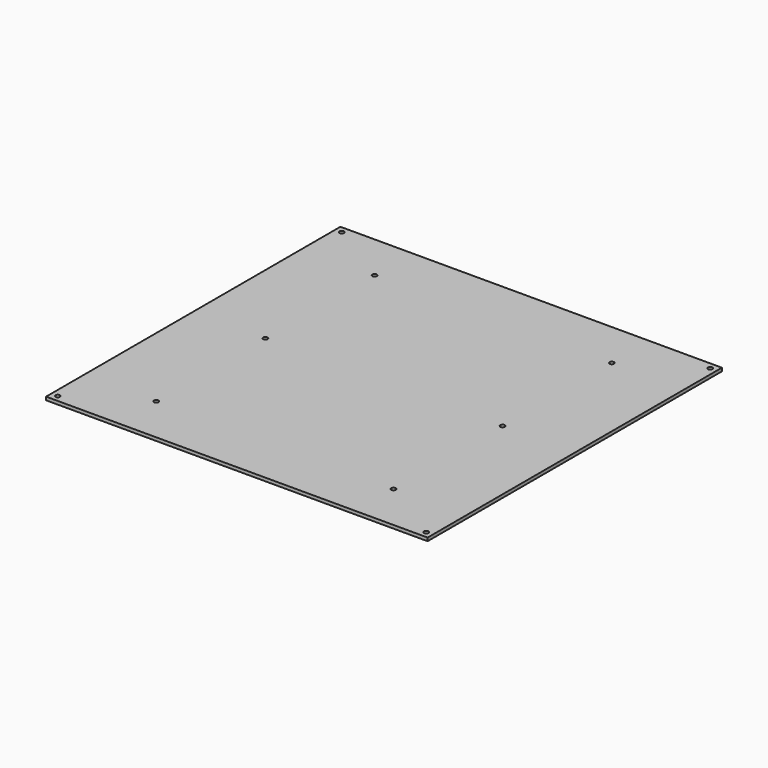
from build123d import *

# Parameters (mm, degrees)
F0_W     = 587
F0_H     = 566
F1_DEPTH = 5
F3_D     = 7
F5_D     = 7


with BuildPart() as f1:
    # F0 (on Top) → F1 (new body)
    with BuildSketch(Plane.XY):
        with Locations((293.5, 283)):
            Rectangle(F0_W, F0_H)
    extrude(amount=F1_DEPTH)

    # F3 (through all)
    with Locations(Plane.XY.offset(5)):
        with Locations((10, 556), (577, 556), (577, 10), (10, 10)):
            Hole(F3_D / 2)

    # F5 (through all)
    with Locations(Plane.XY.offset(5)):
        with Locations((111, 493), (476, 493), (111, 283), (476, 283), (111, 73), (476, 73)):
            Hole(F5_D / 2)


solid = f1.part
